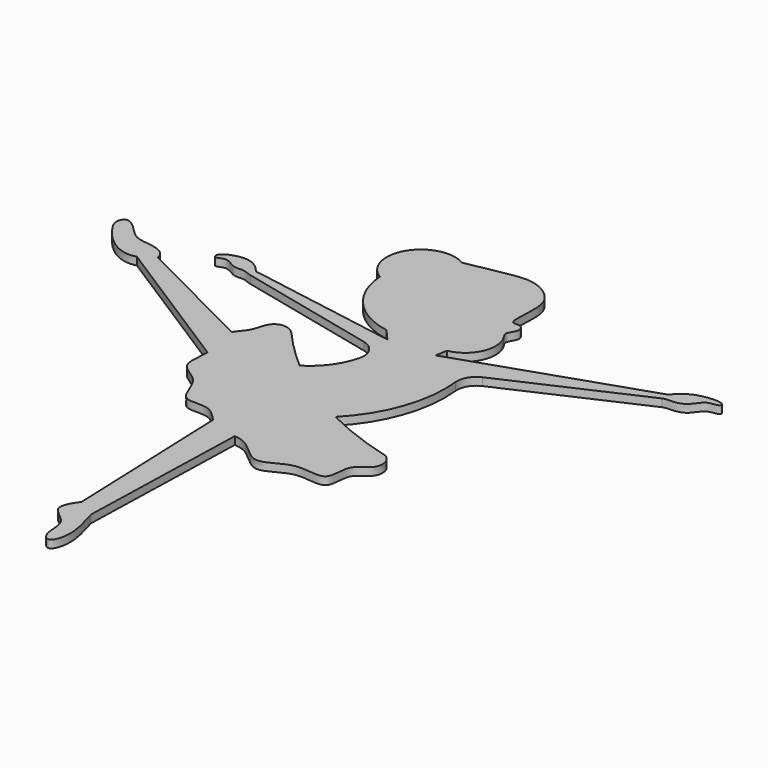
from build123d import *

# Parameters (mm, degrees)
F2_DEPTH = 2


with BuildPart() as f2:
    # F1 (on Top) → F2 (new body)
    with BuildSketch(Plane.XY):
        with BuildLine():
            ThreePointArc((2.3986251238, 22.0475314706), (-0.2754735613, 16.274543116), (-4.9379041327, 11.9455779408))
            ThreePointArc((-4.9379041327, 11.9455779408), (4.4434301593, 4.8853355788), (14.6166737485, -0.9765387108))
            ThreePointArc((14.6166737485, -0.9765387108), (22.3030082695, 11.3924739108), (23.9978853449, 25.8562079827))
            ThreePointArc((23.9978853449, 25.8562079827), (24.6356426565, 28.8607562776), (26.9095369518, 30.9255685158))
            Line((26.9095369518, 30.9255685158), (60.8618070439, 46.2938311805))
            add(Edge.make_bspline(
                [(60.5860762298, 48.2747331262), (61.9028881757, 49.521516872), (64.1245475736, 52.2646566844), (71.978796334, 52.7526534548), (72.001235964, 50.7129390434), (68.4492022518, 51.0516144261), (66.9537990585, 47.3843269652), (63.7254456558, 46.3985113578), (61.8191961192, 46.6097009555), (60.8618070439, 46.2938311805)],
                knots=[0, 0, 0, 0, 0.183177192, 0.383517935, 0.4535365954, 0.5839672553, 0.731197229, 0.8678929436, 1, 1, 1, 1], degree=3))
            Line((60.5860762298, 48.2747331262), (13.6033419143, 32.468574782))
            Line((13.6033419143, 32.468574782), (14.1282082878, 35.4859780195))
            ThreePointArc((14.1282082878, 35.4859780195), (19.8066076314, 39.9133389612), (19.4403543966, 47.1044169458))
            add(Edge.make_bspline(
                [(-7.4747995167, 67.3123786723), (-3.8592343891, 68.002476227), (2.7910921575, 69.3420796589), (9.6100937057, 70.2694841538), (16.7634541009, 65.5085300915), (16.536665129, 58.6053616906), (16.1175246851, 52.6528642055), (18.7414307602, 53.6355865578), (20.5567802548, 51.4461547422), (18.1145330537, 48.8077070001), (19.0469231457, 47.7211736143), (19.4403543966, 47.1044169458)],
                knots=[0, 0, 0, 0, 0.1695165824, 0.3046814167, 0.4454676838, 0.5834566228, 0.6964084007, 0.7652809436, 0.8401218908, 0.9288476922, 1, 1, 1, 1], degree=3))
            ThreePointArc((-7.4747995167, 67.3123786723), (-19.5436496733, 64.2706354046), (-16.5019064057, 52.201785248))
            ThreePointArc((-16.5019064057, 52.201785248), (-11.7678188542, 40.8583152773), (-0.9988322976, 34.9325390018))
            Line((-0.9988322976, 34.9325390018), (1.7437484194, 31.817728249))
            Line((1.7437484194, 31.817728249), (-37.3488221143, 38.4773673498))
            add(Edge.make_bspline(
                [(-37.3488221143, 38.4773673498), (-38.7517746943, 40.092055826), (-41.6866642129, 42.6216487061), (-48.5333663821, 40.1125143872), (-47.8318736145, 37.5950863492), (-45.2068736851, 39.6031061861), (-42.2597089926, 36.7817925436), (-39.5146558755, 37.628101724), (-37.9360687604, 36.5823567924), (-37.1660922522, 36.4773673498)],
                knots=[0, 0, 0, 0, 0.1920413936, 0.3864705134, 0.4736365174, 0.595427729, 0.7453471363, 0.8745550488, 1, 1, 1, 1], degree=3))
            Line((-37.1660922522, 36.4773673498), (-1.3211184638, 28.1021974702))
            ThreePointArc((-1.3211184638, 28.1021974702), (1.8015114718, 25.8506523506), (2.3986251238, 22.0475314706))
        make_face()
        with BuildLine():
            add(Edge.make_bspline(
                [(-24.7413746914, 14.8651491206), (-25.0812524486, 14.3524328202), (-26.095215729, 12.2347172336), (-23.0556518126, 9.299459102), (-22.9416974169, 5.7452695705), (-22.9709230417, 4.8628237039)],
                knots=[0.1468671419, 0.1468671419, 0.1468671419, 0.1468671419, 0.1660489293, 0.2263779159, 0.2457261304, 0.2457261304, 0.2457261304, 0.2457261304], degree=3))
            add(Edge.make_bspline(
                [(-22.9709230417, 4.8628237039), (-23.0518976432, 2.4178562211), (-24.1777018095, -3.2218492343), (-16.4049875581, -5.1790794308), (-15.2337717804, -15.2688666939), (-7.9732166159, -12.6820000376), (-5.058814176, -16.071042734), (-3.7899438572, -17.3408897669)],
                knots=[0.2457261304, 0.2457261304, 0.2457261304, 0.2457261304, 0.2993336737, 0.362290193, 0.4291813035, 0.4890312235, 0.5315328059, 0.5315328059, 0.5315328059, 0.5315328059], degree=3))
            add(Edge.make_bspline(
                [(-3.7899438572, -17.3408897669), (-2.9928523653, -18.1385948207), (-0.7631651708, -20.1595708241), (2.2114086589, -19.963302967), (4.0519705205, -20.1530027415)],
                knots=[0.5315328059, 0.5315328059, 0.5315328059, 0.5315328059, 0.5582318698, 0.6041097604, 0.6041097604, 0.6041097604, 0.6041097604], degree=3))
            add(Edge.make_bspline(
                [(4.0519705205, -20.1530027415), (4.9395114084, -20.2444782359), (8.6102724635, -20.9317180891), (13.5831603458, -28.458603059), (20.9210665541, -20.844453593), (31.0557963502, -24.8569444972), (29.3989479988, -15.3153504964), (35.3102548111, -14.0431853588), (35.1599010343, -9.293921835), (33.0536782999, -7.8903775827)],
                knots=[0.6041097604, 0.6041097604, 0.6041097604, 0.6041097604, 0.6262326266, 0.6965700939, 0.7655260406, 0.8320822954, 0.8918190622, 0.9442980289, 1, 1, 1, 1], degree=3))
            ThreePointArc((33.0536782999, -7.8903775827), (23.6573963546, -4.90753986), (14.6166737485, -0.9765387108))
            ThreePointArc((14.6166737485, -0.9765387108), (4.4434301593, 4.8853355788), (-4.9379041327, 11.9455779408))
            ThreePointArc((-4.9379041327, 11.9455779408), (-10.183354223, 16.7688403627), (-15.056475244, 21.968003618))
            add(Edge.make_bspline(
                [(-15.056475244, 21.968003618), (-17.0906216154, 24.0832289078), (-21.5511093766, 23.4276009885), (-21.6107524376, 18.2948686531), (-24.0866649556, 15.8527993755), (-24.7413746914, 14.8651491206)],
                knots=[0, 0, 0, 0, 0.056125525, 0.1099170836, 0.1468671419, 0.1468671419, 0.1468671419, 0.1468671419], degree=3))
        make_face()
        with BuildLine():
            add(Edge.make_bspline(
                [(-3.7899438572, -17.3408897669), (-2.9928523653, -18.1385948207), (-0.7631651708, -20.1595708241), (2.2114086589, -19.963302967), (4.0519705205, -20.1530027415)],
                knots=[0.5315328059, 0.5315328059, 0.5315328059, 0.5315328059, 0.5582318698, 0.6041097604, 0.6041097604, 0.6041097604, 0.6041097604], degree=3))
            Line((-3.7899438572, -17.3408897669), (-2.1073674812, -61.7773805968))
            add(Edge.make_bspline(
                [(2.7934392456, -64.8112099626), (3.7992880485, -68.226691505), (5.5153075959, -73.8512817806), (3.4259309538, -79.7147043415), (0.2802771674, -76.8775433591), (1.4527985839, -70.4065477539), (-5.7089179023, -67.4312855119), (-3.4306791559, -63.5530643984), (-2.1073674812, -61.7773805968)],
                knots=[0, 0, 0, 0, 0.2258244503, 0.37390776, 0.4865098752, 0.6610356912, 0.8329017489, 1, 1, 1, 1], degree=3))
            Line((2.7934392456, -64.8112099626), (4.0519705205, -20.1530027415))
        make_face()
        with BuildLine():
            add(Edge.make_bspline(
                [(-60.0752756921, 28.5105043479), (-65.1499148644, 27.1469560258), (-71.928707831, 34.6402881726), (-73.1773129145, 38.0010505224), (-71.9965084885, 40.3638320677), (-68.9513328699, 38.7261744116), (-65.6717681621, 34.3990991187), (-60.7447081272, 34.5915079299), (-56.9491667219, 33.0778281169), (-56.6137918553, 30.8593669711)],
                knots=[0, 0, 0, 0, 0.2376771401, 0.3612288324, 0.4471814932, 0.5560175781, 0.7061621077, 0.849648307, 1, 1, 1, 1], degree=3))
            Line((-60.0752756921, 28.5105043479), (-22.9709230417, 4.8628237039))
            add(Edge.make_bspline(
                [(-24.7413746914, 14.8651491206), (-25.0812524486, 14.3524328202), (-26.095215729, 12.2347172336), (-23.0556518126, 9.299459102), (-22.9416974169, 5.7452695705), (-22.9709230417, 4.8628237039)],
                knots=[0.1468671419, 0.1468671419, 0.1468671419, 0.1468671419, 0.1660489293, 0.2263779159, 0.2457261304, 0.2457261304, 0.2457261304, 0.2457261304], degree=3))
            Line((-24.7413746914, 14.8651491206), (-56.6137918553, 30.8593669711))
        make_face()
    extrude(amount=F2_DEPTH)


solid = f2.part
